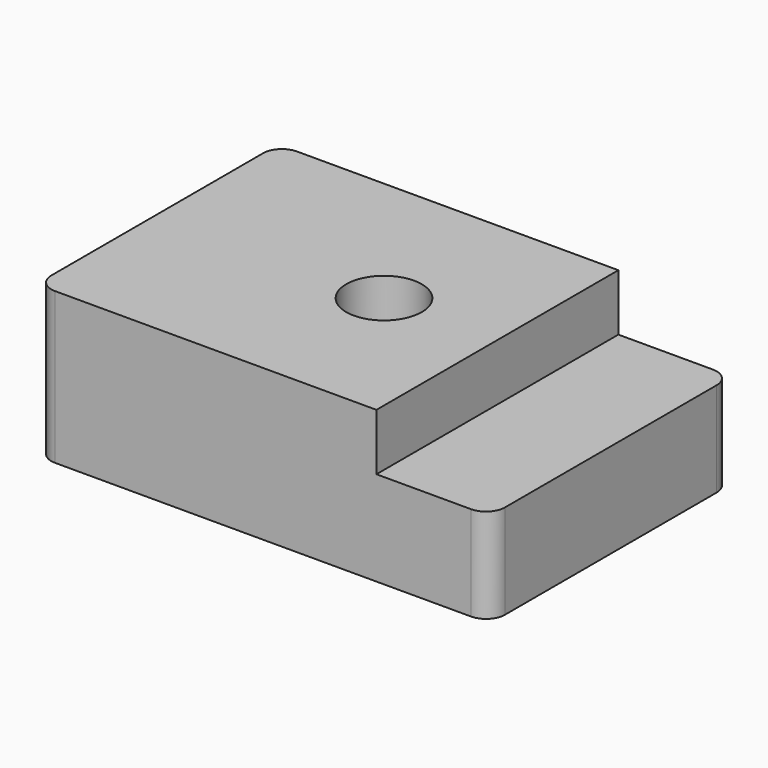
from build123d import *

# Parameters (mm, degrees)
F0_R          = 6.35
F1_DEPTH      = 25.4
F2_W          = 19.05
F2_H          = 9.525
F3_DEPTH      = 25.401
F3_DEPTH_BACK = 25.401


with BuildPart() as f1:
    # F0 (on Top) → F1 (new body)
    with BuildSketch(Plane.XY):
        with BuildLine():
            Line((-34.925, -25.4), (34.925, -25.4))
            ThreePointArc((34.925, -25.4), (37.170064, -24.470064), (38.1, -22.225))
            Line((38.1, -22.225), (38.1, 22.225))
            ThreePointArc((38.1, 22.225), (37.170064, 24.470064), (34.925, 25.4))
            Line((34.925, 25.4), (-34.925, 25.4))
            ThreePointArc((-34.925, 25.4), (-37.170064, 24.470064), (-38.1, 22.225))
            Line((-38.1, 22.225), (-38.1, -22.225))
            ThreePointArc((-38.1, -22.225), (-37.170064, -24.470064), (-34.925, -25.4))
        make_face()
        Circle(F0_R, mode=Mode.SUBTRACT)
    extrude(amount=F1_DEPTH)

    # F2 (on Front) → F3 (cut, two sides)
    with BuildSketch(Plane.XZ) as f3_sk:
        with Locations((28.575, 20.6375)):
            Rectangle(F2_W, F2_H)
    extrude(amount=F3_DEPTH, mode=Mode.SUBTRACT)
    extrude(f3_sk.sketch, amount=-F3_DEPTH_BACK, mode=Mode.SUBTRACT)


solid = f1.part
